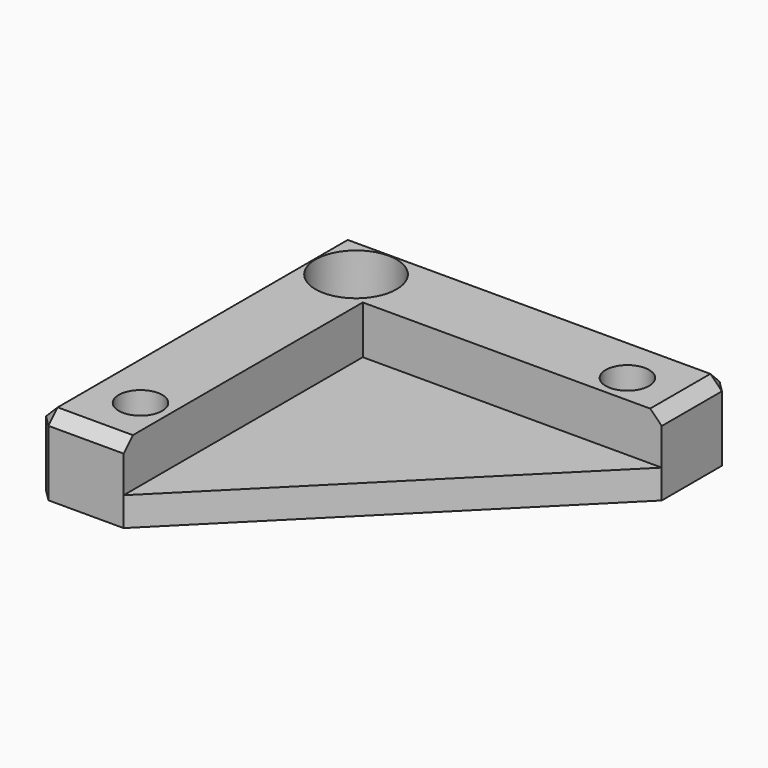
from build123d import *

# Parameters (mm, degrees)
F0_R     = 2.25
F0_R_2   = 4.2
F1_DEPTH = 8
F2_DEPTH = 3
F3_W     = 7.4
F3_H     = 7.4
F3_R     = 2.25
F4_DEPTH = 2.4
F5_SIZE  = 1.2


with BuildPart() as f1:
    # F0 (on Top) → F1 (new body)
    with BuildSketch(Plane.XY):
        Polygon((34.5, 5.5), (-5.5, 5.5), (-5.5, -34.5), (3.5, -34.5), (3.5, -3.5), (34.5, -3.5), align=None)
        with Locations((0.45, -28.5)):
            Circle(F0_R, mode=Mode.SUBTRACT)
        Circle(F0_R_2, mode=Mode.SUBTRACT)
        with Locations((28.5, -0.45)):
            Circle(F0_R, mode=Mode.SUBTRACT)
    extrude(amount=F1_DEPTH)

    # F0 (on Top) → F2 (join)
    with BuildSketch(Plane.XY):
        Polygon((3.5, -34.5), (34.5, -3.5), (3.5, -3.5), align=None)
        Circle(F0_R_2)
        Circle(F0_R, mode=Mode.SUBTRACT)
    extrude(amount=F2_DEPTH)

    # F3 (on face) → F4 (cut)
    with BuildSketch(Plane(origin=(0, 0, 0), x_dir=(1, 0, 0), z_dir=(0, 0, -1))):
        with Locations((0.45, 28.5)):
            Rectangle(F3_W, F3_H)
        with Locations((0.45, 28.5)):
            Circle(F3_R, mode=Mode.SUBTRACT)
        with Locations((28.5, 0.45)):
            Rectangle(F3_W, F3_H)
        with Locations((28.5, 0.45)):
            Circle(F3_R, mode=Mode.SUBTRACT)
    extrude(amount=-F4_DEPTH, mode=Mode.SUBTRACT)

    # F5
    f5_edges = [f1.edges().sort_by_distance(p)[0] for p in [
        (-5.5, 5.5, 4),
        (-5.5, -34.5, 4),
        (34.5, 5.5, 4),
        (14.5, 5.5, 8),
        (-5.5, -14.5, 8),
        (-1, -34.5, 8),
        (34.5, 1, 8),
    ]]
    chamfer(f5_edges, length=F5_SIZE)


solid = f1.part
